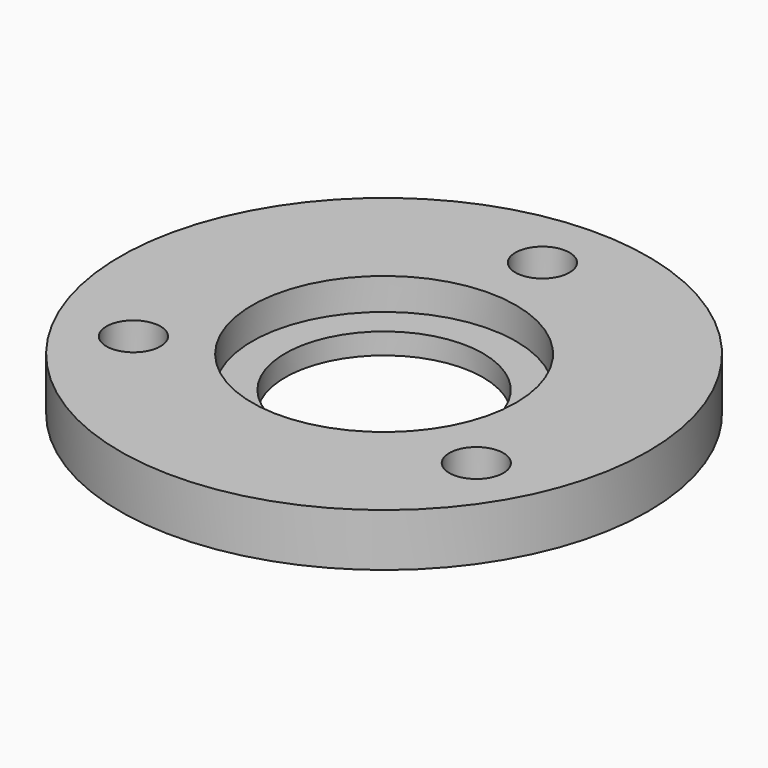
from build123d import *

# Parameters (mm, degrees)
F0_R     = 25.4
F0_R_2   = 2.6035
F0_R_3   = 12.7
F1_DEPTH = 5.08
F0_R_4   = 9.525
F2_DEPTH = 2.032


with BuildPart() as f1:
    # F0 (on Top) → F1 (new body)
    with BuildSketch(Plane.XY):
        Circle(F0_R)
        with Locations((-16.497784, -9.525)):
            Circle(F0_R_2, mode=Mode.SUBTRACT)
        Circle(F0_R_3, mode=Mode.SUBTRACT)
        with Locations((16.497784, -9.525)):
            Circle(F0_R_2, mode=Mode.SUBTRACT)
        with Locations((0, 19.05)):
            Circle(F0_R_2, mode=Mode.SUBTRACT)
    extrude(amount=F1_DEPTH)

    # F0 (on Top) → F2 (join)
    with BuildSketch(Plane.XY):
        Circle(F0_R_3)
        Circle(F0_R_4, mode=Mode.SUBTRACT)
    extrude(amount=F2_DEPTH)


solid = f1.part
